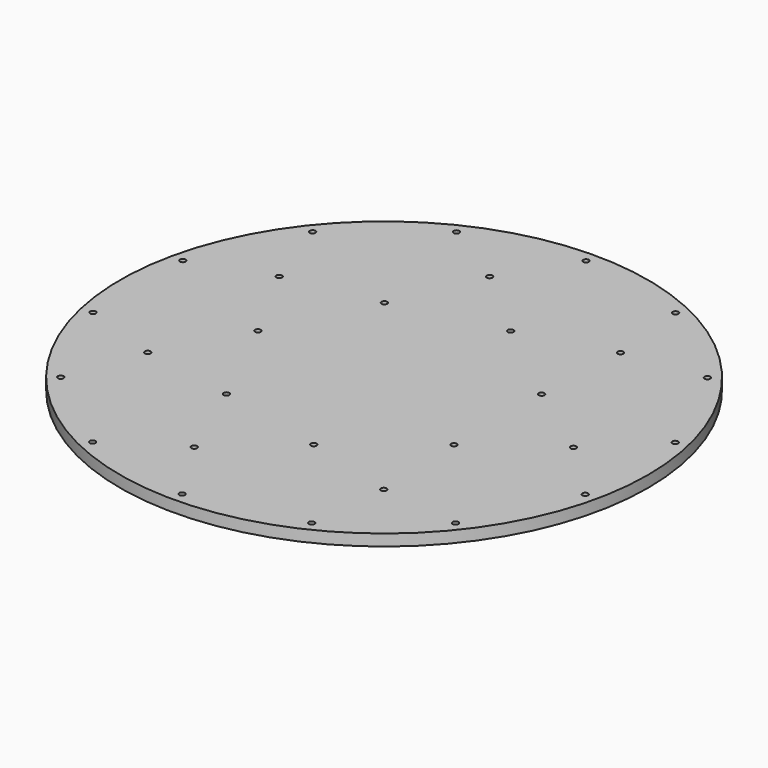
from build123d import *

# Parameters (mm, degrees)
F0_R     = 292.1
F1_DEPTH = 12.7
F2_D     = 6.35
F3_R     = 36.5125
F3_R_2   = 30.1625
F4_DEPTH = 25.4


with BuildPart() as f1:
    # F0 (on Top) → F1 (new body)
    with BuildSketch(Plane.XY):
        Circle(F0_R)
        with BuildLine():
            ThreePointArc((272.3948586636, 62.1723489474), (277.6431914442, 31.2828746233), (279.4, 0))
            ThreePointArc((279.4, 0), (277.6431914442, -31.2828746233), (272.3948586636, -62.1723489474))
            ThreePointArc((272.3948586636, -62.1723489474), (251.7307016919, -121.2271167094), (218.4437162016, -174.2030506393))
            ThreePointArc((218.4437162016, -174.2030506393), (174.2030506393, -218.4437162016), (121.2271167094, -251.7307016919))
            ThreePointArc((121.2271167094, -251.7307016919), (62.1723489474, -272.3948586636), (0, -279.4))
            ThreePointArc((0, -279.4), (-62.1723489474, -272.3948586636), (-121.2271167094, -251.7307016919))
            ThreePointArc((-121.2271167094, -251.7307016919), (-174.2030506393, -218.4437162016), (-218.4437162016, -174.2030506393))
            ThreePointArc((-218.4437162016, -174.2030506393), (-251.7307016919, -121.2271167094), (-272.3948586636, -62.1723489474))
            ThreePointArc((-272.3948586636, -62.1723489474), (-279.4, 0), (-272.3948586636, 62.1723489474))
            ThreePointArc((-272.3948586636, 62.1723489474), (-251.7307016919, 121.2271167094), (-218.4437162016, 174.2030506393))
            ThreePointArc((-218.4437162016, 174.2030506393), (-174.2030506393, 218.4437162016), (-121.2271167094, 251.7307016919))
            ThreePointArc((-121.2271167094, 251.7307016919), (-62.1723489474, 272.3948586636), (0, 279.4))
            ThreePointArc((0, 279.4), (62.1723489474, 272.3948586636), (121.2271167094, 251.7307016919))
            ThreePointArc((121.2271167094, 251.7307016919), (174.2030506393, 218.4437162016), (218.4437162016, 174.2030506393))
            ThreePointArc((218.4437162016, 174.2030506393), (251.7307016919, 121.2271167094), (272.3948586636, 62.1723489474))
        make_face(mode=Mode.SUBTRACT)
        with BuildLine():
            ThreePointArc((-46.6292617105, 204.2961439977), (-69.2099774327, 197.7907518661), (-90.9203375321, 188.798026269))
            ThreePointArc((-90.9203375321, 188.798026269), (-130.6522879795, 163.8327871512), (-163.8327871512, 130.6522879795))
            ThreePointArc((-163.8327871512, 130.6522879795), (-177.4310559483, 111.4873216338), (-188.798026269, 90.9203375321))
            Line((-188.798026269, 90.9203375321), (-125.865350846, 60.6135583547))
            ThreePointArc((-125.865350846, 60.6135583547), (-109.2218581008, 87.1015253197), (-87.1015253197, 109.2218581008))
            ThreePointArc((-87.1015253197, 109.2218581008), (-60.6135583547, 125.865350846), (-31.0861744737, 136.1974293318))
            Line((-31.0861744737, 136.1974293318), (-46.6292617105, 204.2961439977))
        make_face()
        with BuildLine():
            ThreePointArc((130.6522879795, 163.8327871512), (111.4873216338, 177.4310559483), (90.9203375321, 188.798026269))
            ThreePointArc((90.9203375321, 188.798026269), (46.6292617105, 204.2961439977), (0, 209.55))
            ThreePointArc((0, 209.55), (-23.4621559674, 208.2323935831), (-46.6292617105, 204.2961439977))
            Line((-46.6292617105, 204.2961439977), (-31.0861744737, 136.1974293318))
            ThreePointArc((-31.0861744737, 136.1974293318), (0, 139.7), (31.0861744737, 136.1974293318))
            ThreePointArc((31.0861744737, 136.1974293318), (60.6135583547, 125.865350846), (87.1015253197, 109.2218581008))
            Line((87.1015253197, 109.2218581008), (130.6522879795, 163.8327871512))
        make_face()
        with BuildLine():
            ThreePointArc((0, -209.55), (46.6292617105, -204.2961439977), (90.9203375321, -188.798026269))
            ThreePointArc((90.9203375321, -188.798026269), (111.4873216338, -177.4310559483), (130.6522879795, -163.8327871512))
            Line((130.6522879795, -163.8327871512), (87.1015253197, -109.2218581008))
            ThreePointArc((87.1015253197, -109.2218581008), (60.6135583547, -125.865350846), (31.0861744737, -136.1974293318))
            ThreePointArc((31.0861744737, -136.1974293318), (0, -139.7), (-31.0861744737, -136.1974293318))
            Line((-31.0861744737, -136.1974293318), (-46.6292617105, -204.2961439977))
            ThreePointArc((-46.6292617105, -204.2961439977), (-23.4621559674, -208.2323935831), (0, -209.55))
        make_face()
        with BuildLine():
            ThreePointArc((163.8327871512, -130.6522879795), (188.798026269, -90.9203375321), (204.2961439977, -46.6292617105))
            ThreePointArc((204.2961439977, -46.6292617105), (208.2323935831, -23.4621559674), (209.55, 0))
            Line((209.55, 0), (139.7, 0))
            ThreePointArc((139.7, 0), (136.1974293318, -31.0861744737), (125.865350846, -60.6135583547))
            ThreePointArc((125.865350846, -60.6135583547), (109.2218581008, -87.1015253197), (87.1015253197, -109.2218581008))
            Line((87.1015253197, -109.2218581008), (130.6522879795, -163.8327871512))
            ThreePointArc((130.6522879795, -163.8327871512), (148.1742259976, -148.1742259976), (163.8327871512, -130.6522879795))
        make_face()
        with BuildLine():
            ThreePointArc((-125.865350846, -60.6135583547), (-136.1974293318, -31.0861744737), (-139.7, 0))
            ThreePointArc((-139.7, 0), (-136.1974293318, 31.0861744737), (-125.865350846, 60.6135583547))
            Line((-125.865350846, 60.6135583547), (-188.798026269, 90.9203375321))
            ThreePointArc((-188.798026269, 90.9203375321), (-197.7907518661, 69.2099774327), (-204.2961439977, 46.6292617105))
            ThreePointArc((-204.2961439977, 46.6292617105), (-209.55, 0), (-204.2961439977, -46.6292617105))
            ThreePointArc((-204.2961439977, -46.6292617105), (-197.7907518661, -69.2099774327), (-188.798026269, -90.9203375321))
            Line((-188.798026269, -90.9203375321), (-125.865350846, -60.6135583547))
        make_face()
        with BuildLine():
            ThreePointArc((209.55, 0), (208.2323935831, 23.4621559674), (204.2961439977, 46.6292617105))
            ThreePointArc((204.2961439977, 46.6292617105), (188.798026269, 90.9203375321), (163.8327871512, 130.6522879795))
            ThreePointArc((163.8327871512, 130.6522879795), (148.1742259976, 148.1742259976), (130.6522879795, 163.8327871512))
            Line((130.6522879795, 163.8327871512), (87.1015253197, 109.2218581008))
            ThreePointArc((87.1015253197, 109.2218581008), (109.2218581008, 87.1015253197), (125.865350846, 60.6135583547))
            ThreePointArc((125.865350846, 60.6135583547), (136.1974293318, 31.0861744737), (139.7, 0))
            Line((139.7, 0), (209.55, 0))
        make_face()
        with BuildLine():
            ThreePointArc((-163.8327871512, -130.6522879795), (-130.6522879795, -163.8327871512), (-90.9203375321, -188.798026269))
            ThreePointArc((-90.9203375321, -188.798026269), (-69.2099774327, -197.7907518661), (-46.6292617105, -204.2961439977))
            Line((-46.6292617105, -204.2961439977), (-31.0861744737, -136.1974293318))
            ThreePointArc((-31.0861744737, -136.1974293318), (-60.6135583547, -125.865350846), (-87.1015253197, -109.2218581008))
            ThreePointArc((-87.1015253197, -109.2218581008), (-109.2218581008, -87.1015253197), (-125.865350846, -60.6135583547))
            Line((-125.865350846, -60.6135583547), (-188.798026269, -90.9203375321))
            ThreePointArc((-188.798026269, -90.9203375321), (-177.4310559483, -111.4873216338), (-163.8327871512, -130.6522879795))
        make_face()
        with BuildLine():
            Line((0, 0), (31.0861744737, 136.1974293318))
            ThreePointArc((31.0861744737, 136.1974293318), (0, 139.7), (-31.0861744737, 136.1974293318))
            ThreePointArc((-31.0861744737, 136.1974293318), (-60.6135583547, 125.865350846), (-87.1015253197, 109.2218581008))
            Line((-87.1015253197, 109.2218581008), (0, 0))
        make_face()
        with BuildLine():
            ThreePointArc((87.1015253197, -109.2218581008), (109.2218581008, -87.1015253197), (125.865350846, -60.6135583547))
            Line((125.865350846, -60.6135583547), (0, 0))
            Line((0, 0), (31.0861744737, -136.1974293318))
            ThreePointArc((31.0861744737, -136.1974293318), (60.6135583547, -125.865350846), (87.1015253197, -109.2218581008))
        make_face()
        with BuildLine():
            Line((31.0861744737, -136.1974293318), (0, 0))
            Line((0, 0), (-87.1015253197, -109.2218581008))
            ThreePointArc((-87.1015253197, -109.2218581008), (-60.6135583547, -125.865350846), (-31.0861744737, -136.1974293318))
            ThreePointArc((-31.0861744737, -136.1974293318), (0, -139.7), (31.0861744737, -136.1974293318))
        make_face()
        with BuildLine():
            ThreePointArc((125.865350846, -60.6135583547), (136.1974293318, -31.0861744737), (139.7, 0))
            ThreePointArc((139.7, 0), (136.1974293318, 31.0861744737), (125.865350846, 60.6135583547))
            Line((125.865350846, 60.6135583547), (0, 0))
            Line((0, 0), (125.865350846, -60.6135583547))
        make_face()
        with BuildLine():
            ThreePointArc((125.865350846, 60.6135583547), (109.2218581008, 87.1015253197), (87.1015253197, 109.2218581008))
            ThreePointArc((87.1015253197, 109.2218581008), (60.6135583547, 125.865350846), (31.0861744737, 136.1974293318))
            Line((31.0861744737, 136.1974293318), (0, 0))
            Line((0, 0), (125.865350846, 60.6135583547))
        make_face()
        with BuildLine():
            Line((-139.7, 0), (0, 0))
            Line((0, 0), (-87.1015253197, 109.2218581008))
            ThreePointArc((-87.1015253197, 109.2218581008), (-109.2218581008, 87.1015253197), (-125.865350846, 60.6135583547))
            ThreePointArc((-125.865350846, 60.6135583547), (-136.1974293318, 31.0861744737), (-139.7, 0))
        make_face()
        with BuildLine():
            Line((-87.1015253197, -109.2218581008), (0, 0))
            Line((0, 0), (-139.7, 0))
            ThreePointArc((-139.7, 0), (-136.1974293318, -31.0861744737), (-125.865350846, -60.6135583547))
            ThreePointArc((-125.865350846, -60.6135583547), (-109.2218581008, -87.1015253197), (-87.1015253197, -109.2218581008))
        make_face()
        with BuildLine():
            Line((-90.9203375321, 188.798026269), (-121.2271167094, 251.7307016919))
            ThreePointArc((-121.2271167094, 251.7307016919), (-174.2030506393, 218.4437162016), (-218.4437162016, 174.2030506393))
            Line((-218.4437162016, 174.2030506393), (-163.8327871512, 130.6522879795))
            ThreePointArc((-163.8327871512, 130.6522879795), (-130.6522879795, 163.8327871512), (-90.9203375321, 188.798026269))
        make_face()
        with BuildLine():
            Line((90.9203375321, 188.798026269), (121.2271167094, 251.7307016919))
            ThreePointArc((121.2271167094, 251.7307016919), (62.1723489474, 272.3948586636), (0, 279.4))
            Line((0, 279.4), (0, 209.55))
            ThreePointArc((0, 209.55), (46.6292617105, 204.2961439977), (90.9203375321, 188.798026269))
        make_face()
        with BuildLine():
            ThreePointArc((272.3948586636, -62.1723489474), (277.6431914442, -31.2828746233), (279.4, 0))
            ThreePointArc((279.4, 0), (277.6431914442, 31.2828746233), (272.3948586636, 62.1723489474))
            Line((272.3948586636, 62.1723489474), (204.2961439977, 46.6292617105))
            ThreePointArc((204.2961439977, 46.6292617105), (208.2323935831, 23.4621559674), (209.55, 0))
            ThreePointArc((209.55, 0), (208.2323935831, -23.4621559674), (204.2961439977, -46.6292617105))
            Line((204.2961439977, -46.6292617105), (272.3948586636, -62.1723489474))
        make_face()
        with BuildLine():
            ThreePointArc((-121.2271167094, -251.7307016919), (-62.1723489474, -272.3948586636), (0, -279.4))
            Line((0, -279.4), (0, -209.55))
            ThreePointArc((0, -209.55), (-23.4621559674, -208.2323935831), (-46.6292617105, -204.2961439977))
            ThreePointArc((-46.6292617105, -204.2961439977), (-69.2099774327, -197.7907518661), (-90.9203375321, -188.798026269))
            Line((-90.9203375321, -188.798026269), (-121.2271167094, -251.7307016919))
        make_face()
        with BuildLine():
            Line((0, 209.55), (0, 279.4))
            ThreePointArc((0, 279.4), (-62.1723489474, 272.3948586636), (-121.2271167094, 251.7307016919))
            Line((-121.2271167094, 251.7307016919), (-90.9203375321, 188.798026269))
            ThreePointArc((-90.9203375321, 188.798026269), (-69.2099774327, 197.7907518661), (-46.6292617105, 204.2961439977))
            ThreePointArc((-46.6292617105, 204.2961439977), (-23.4621559674, 208.2323935831), (0, 209.55))
        make_face()
        with BuildLine():
            ThreePointArc((218.4437162016, -174.2030506393), (251.7307016919, -121.2271167094), (272.3948586636, -62.1723489474))
            Line((272.3948586636, -62.1723489474), (204.2961439977, -46.6292617105))
            ThreePointArc((204.2961439977, -46.6292617105), (188.798026269, -90.9203375321), (163.8327871512, -130.6522879795))
            Line((163.8327871512, -130.6522879795), (218.4437162016, -174.2030506393))
        make_face()
        with BuildLine():
            Line((163.8327871512, 130.6522879795), (218.4437162016, 174.2030506393))
            ThreePointArc((218.4437162016, 174.2030506393), (174.2030506393, 218.4437162016), (121.2271167094, 251.7307016919))
            Line((121.2271167094, 251.7307016919), (90.9203375321, 188.798026269))
            ThreePointArc((90.9203375321, 188.798026269), (111.4873216338, 177.4310559483), (130.6522879795, 163.8327871512))
            ThreePointArc((130.6522879795, 163.8327871512), (148.1742259976, 148.1742259976), (163.8327871512, 130.6522879795))
        make_face()
        with BuildLine():
            ThreePointArc((-272.3948586636, -62.1723489474), (-251.7307016919, -121.2271167094), (-218.4437162016, -174.2030506393))
            Line((-218.4437162016, -174.2030506393), (-163.8327871512, -130.6522879795))
            ThreePointArc((-163.8327871512, -130.6522879795), (-177.4310559483, -111.4873216338), (-188.798026269, -90.9203375321))
            ThreePointArc((-188.798026269, -90.9203375321), (-197.7907518661, -69.2099774327), (-204.2961439977, -46.6292617105))
            Line((-204.2961439977, -46.6292617105), (-272.3948586636, -62.1723489474))
        make_face()
        with BuildLine():
            Line((-204.2961439977, 46.6292617105), (-272.3948586636, 62.1723489474))
            ThreePointArc((-272.3948586636, 62.1723489474), (-279.4, 0), (-272.3948586636, -62.1723489474))
            Line((-272.3948586636, -62.1723489474), (-204.2961439977, -46.6292617105))
            ThreePointArc((-204.2961439977, -46.6292617105), (-209.55, 0), (-204.2961439977, 46.6292617105))
        make_face()
        with BuildLine():
            Line((204.2961439977, 46.6292617105), (272.3948586636, 62.1723489474))
            ThreePointArc((272.3948586636, 62.1723489474), (251.7307016919, 121.2271167094), (218.4437162016, 174.2030506393))
            Line((218.4437162016, 174.2030506393), (163.8327871512, 130.6522879795))
            ThreePointArc((163.8327871512, 130.6522879795), (188.798026269, 90.9203375321), (204.2961439977, 46.6292617105))
        make_face()
        with BuildLine():
            ThreePointArc((121.2271167094, -251.7307016919), (174.2030506393, -218.4437162016), (218.4437162016, -174.2030506393))
            Line((218.4437162016, -174.2030506393), (163.8327871512, -130.6522879795))
            ThreePointArc((163.8327871512, -130.6522879795), (148.1742259976, -148.1742259976), (130.6522879795, -163.8327871512))
            ThreePointArc((130.6522879795, -163.8327871512), (111.4873216338, -177.4310559483), (90.9203375321, -188.798026269))
            Line((90.9203375321, -188.798026269), (121.2271167094, -251.7307016919))
        make_face()
        with BuildLine():
            ThreePointArc((0, -279.4), (62.1723489474, -272.3948586636), (121.2271167094, -251.7307016919))
            Line((121.2271167094, -251.7307016919), (90.9203375321, -188.798026269))
            ThreePointArc((90.9203375321, -188.798026269), (46.6292617105, -204.2961439977), (0, -209.55))
            Line((0, -209.55), (0, -279.4))
        make_face()
        with BuildLine():
            ThreePointArc((-218.4437162016, -174.2030506393), (-174.2030506393, -218.4437162016), (-121.2271167094, -251.7307016919))
            Line((-121.2271167094, -251.7307016919), (-90.9203375321, -188.798026269))
            ThreePointArc((-90.9203375321, -188.798026269), (-130.6522879795, -163.8327871512), (-163.8327871512, -130.6522879795))
            Line((-163.8327871512, -130.6522879795), (-218.4437162016, -174.2030506393))
        make_face()
        with BuildLine():
            Line((-163.8327871512, 130.6522879795), (-218.4437162016, 174.2030506393))
            ThreePointArc((-218.4437162016, 174.2030506393), (-251.7307016919, 121.2271167094), (-272.3948586636, 62.1723489474))
            Line((-272.3948586636, 62.1723489474), (-204.2961439977, 46.6292617105))
            ThreePointArc((-204.2961439977, 46.6292617105), (-197.7907518661, 69.2099774327), (-188.798026269, 90.9203375321))
            ThreePointArc((-188.798026269, 90.9203375321), (-177.4310559483, 111.4873216338), (-163.8327871512, 130.6522879795))
        make_face()
    extrude(amount=F1_DEPTH)

    # F2 (through all)
    with Locations(Plane(origin=(0, 0, 0), x_dir=(1, 0, 0), z_dir=(0, 0, -1))):
        with Locations((-218.4437162016, -174.2030506393), (-121.2271167094, -251.7307016919), (0, -279.4), (121.2271167094, -251.7307016919), (218.4437162016, -174.2030506393), (272.3948586636, -62.1723489474), (272.3948586636, 62.1723489474), (218.4437162016, 174.2030506393), (121.2271167094, 251.7307016919), (0, 279.4), (-121.2271167094, 251.7307016919), (-218.4437162016, 174.2030506393), (-272.3948586636, 62.1723489474), (-272.3948586636, -62.1723489474), (-188.798026269, -90.9203375321), (-46.6292617105, -204.2961439977), (130.6522879795, -163.8327871512), (209.55, 0), (130.6522879795, 163.8327871512), (-46.6292617105, 204.2961439977), (-188.798026269, 90.9203375321), (-139.7, 0), (-87.1015253197, -109.2218581008), (31.0861744737, -136.1974293318), (125.865350846, -60.6135583547), (125.865350846, 60.6135583547), (31.0861744737, 136.1974293318), (-87.1015253197, 109.2218581008)):
            Hole(F2_D / 2)

    # F3 (on face) → F4 (join)
    with BuildSketch(Plane(origin=(0, 0, 0), x_dir=(1, 0, 0), z_dir=(0, 0, -1))):
        Circle(F3_R)
        Circle(F3_R_2, mode=Mode.SUBTRACT)
    extrude(amount=F4_DEPTH)


solid = f1.part
